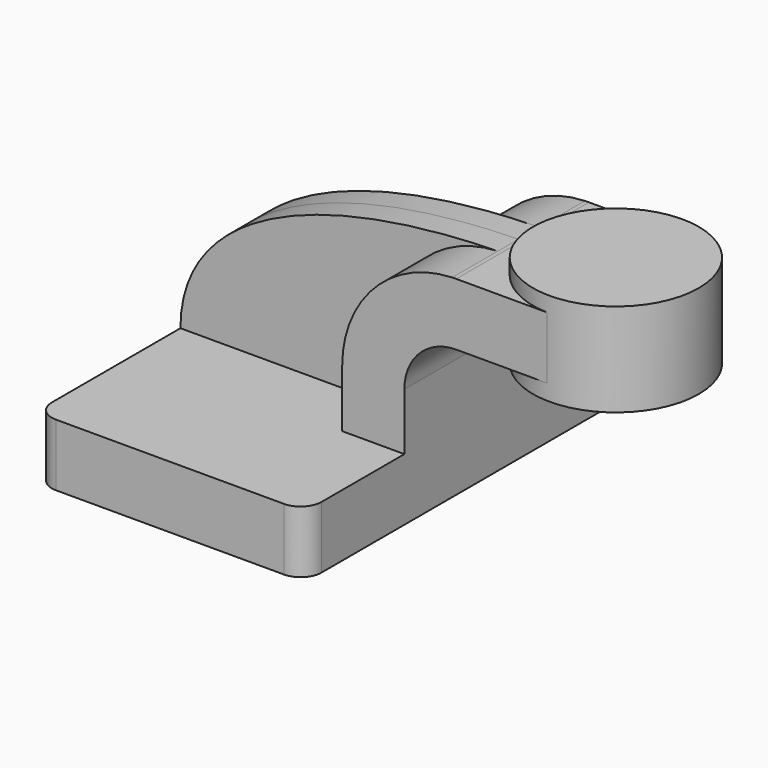
from build123d import *

# Parameters (mm, degrees)
F1_DEPTH = 63.5
F0_W     = 24.577054
F0_H     = 19.05
F2_DEPTH = 25.4
F3_DEPTH = 7.9375
F0_W_2   = 25.4
F0_H_2   = 28.575
F5_R     = 6.35


with BuildPart() as f1:
    # F0 (on Front) → F1 (new body, symmetric)
    with BuildSketch(Plane.XZ):
        Polygon((41.275, -9.525), (41.275, 9.525), (22.225, 9.525), (-41.275, 9.525), (-41.275, -9.525), align=None)
    extrude(amount=F1_DEPTH, both=True)

    # F0 (on Front) → F2 (join, symmetric)
    with BuildSketch(Plane.XZ):
        with BuildLine():
            Line((22.225, 9.525), (41.275, 9.525))
            Line((41.275, 9.525), (41.275, 27.0002))
            ThreePointArc((41.275, 27.0002), (45.92468, 38.22552), (57.15, 42.8752))
            Line((57.15, 42.8752), (60.325, 42.8752))
            Line((60.325, 42.8752), (60.325, 61.9252))
            Line((60.325, 61.9252), (57.15, 61.9252))
            add(Edge.make_bspline(
                [(55.929647, 61.903873), (56.335616, 61.911845), (56.742404, 61.918954), (57.15, 61.9252)],
                knots=[110.709281, 110.709281, 110.709281, 110.709281, 111.504536, 111.504536, 111.504536, 111.504536], degree=3))
            ThreePointArc((55.929647, 61.903873), (32.02654, 51.260608), (22.225, 27.0002))
            Line((22.225, 27.0002), (22.225, 9.525))
        make_face()
        with Locations((72.613527, 52.4002)):
            Rectangle(F0_W, F0_H)
    extrude(amount=F2_DEPTH, both=True)

    # F0 (on Front) → F3 (join, symmetric)
    with BuildSketch(Plane.XZ):
        with BuildLine():
            Line((-41.275, 9.525), (22.225, 9.525))
            Line((22.225, 9.525), (22.225, 27.0002))
            ThreePointArc((22.225, 27.0002), (32.02654, 51.260608), (55.929647, 61.903873))
            add(Edge.make_bspline(
                [(-41.275, 9.525), (-41.25457, 42.958838), (-0.586359, 60.794032), (55.929647, 61.903873)],
                knots=[0, 0, 0, 0, 110.709281, 110.709281, 110.709281, 110.709281], degree=3))
        make_face()
    extrude(amount=F3_DEPTH, both=True)

    # F0 (on Front) → F4 (revolve)
    with BuildSketch(Plane.XZ):
        with Locations((98.425, 52.3875)):
            Rectangle(F0_W_2, F0_H_2)
    revolve(axis=Axis((85.725, 0, 52.3875), (0, 0, 1)))

    # F5
    f5_edges = [f1.edges().sort_by_distance(p)[0] for p in [
        (-41.275, -63.5, 0),
        (41.275, -63.5, 0),
        (41.275, 63.5, 0),
        (-41.275, 63.5, 0),
    ]]
    fillet(f5_edges, radius=F5_R)


solid = f1.part
